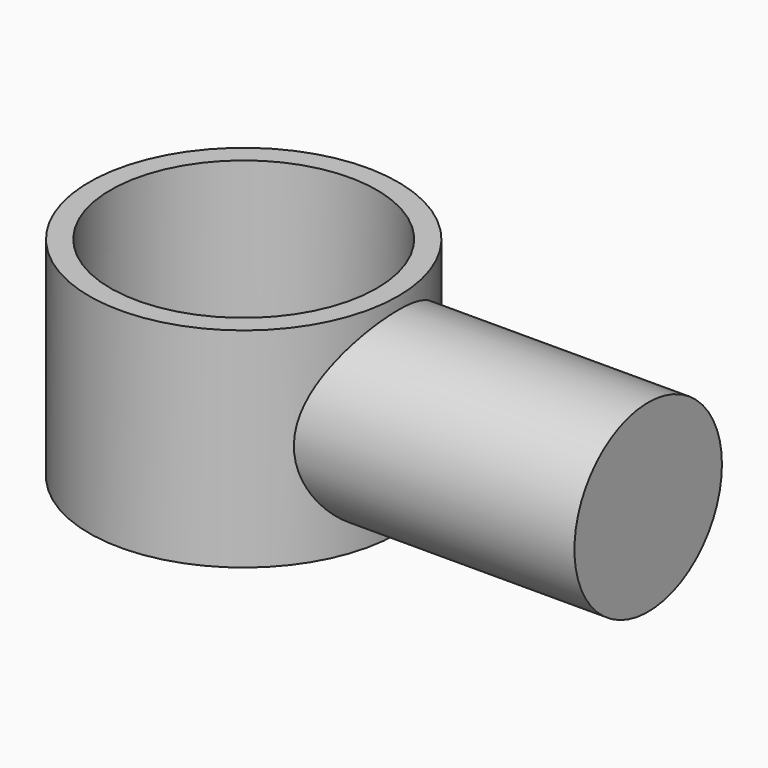
from build123d import *

# Parameters (mm, degrees)
F0_R     = 1.8415
F0_R_2   = 1.5875
F1_DEPTH = 1.2446
F2_R     = 1.099143
F3_DEPTH = 4.1402
F4_DEPTH = 12.7


with BuildPart() as f1:
    # F0 (on Top) → F1 (new body, symmetric)
    with BuildSketch(Plane.XY):
        with Locations((-0.6821, 0)):
            Circle(F0_R)
        with Locations((-0.6821, 0)):
            Circle(F0_R_2, mode=Mode.SUBTRACT)
    extrude(amount=F1_DEPTH, both=True)

    # F2 (on Right) → F3 (join)
    with BuildSketch(Plane.YZ):
        Circle(F2_R)
    extrude(amount=F3_DEPTH)

    # F0 (on Top) → F4 (cut, symmetric)
    with BuildSketch(Plane.XY):
        with Locations((-0.6821, 0)):
            Circle(F0_R_2)
    extrude(amount=F4_DEPTH, both=True, mode=Mode.SUBTRACT)


solid = f1.part
